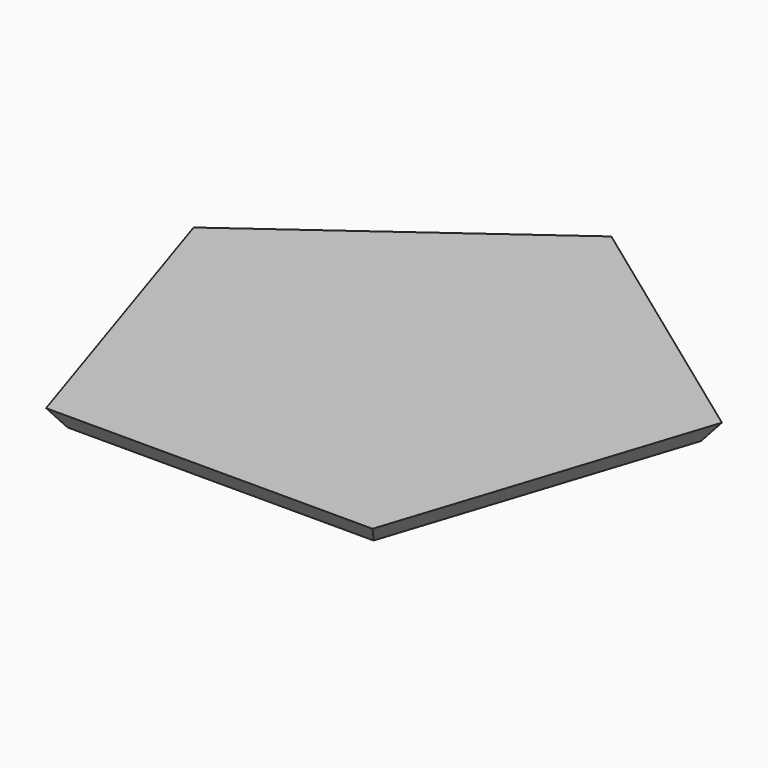
from build123d import *

# Parameters (mm, degrees)
F1_DEPTH = 1.27
F1_TAPER = -36


with BuildPart() as f1:
    # F0 (on Top) → F1 (new body)
    with BuildSketch(Plane.XY):
        Polygon((9.99998, -13.7637916771), (16.1803075268, 5.2573006066), (0, 17.012982141), (-16.1803075268, 5.2573006066), (-9.99998, -13.7637916771), align=None)
    extrude(amount=F1_DEPTH, taper=F1_TAPER)


solid = f1.part
